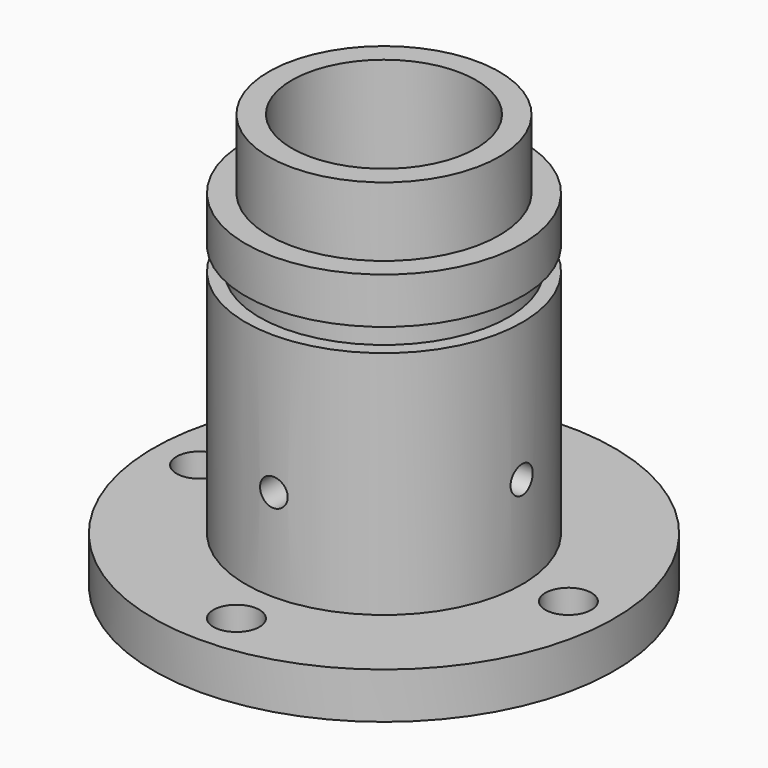
from build123d import *

# Parameters (mm, degrees)
F2_SIZE  = 3
F3_R     = 3
F4_DEPTH = 50
F5_R     = 3
F6_DEPTH = 50
F7_R     = 5
F8_DEPTH = 10


with BuildPart() as f1:
    # F0 (on Right) → F1 (revolve)
    with BuildSketch(Plane.YZ):
        Polygon((-50, 0), (-16, 0), (-16, 15), (-20, 15), (-20, 20), (-16, 20), (-16, 40), (-20, 50), (-20, 90), (-25, 90), (-25, 75), (-30, 75), (-30, 65), (-27, 65), (-27, 60), (-30, 60), (-30, 10), (-50, 10), align=None)
    revolve(axis=Axis((0, 0, 45), (0, 0, 1)))

    # F2
    f2_edges = [f1.edges().sort_by_distance(p)[0] for p in [
        (0, 16, 0),
    ]]
    chamfer(f2_edges, length=F2_SIZE)

    # F3 (on Front) → F4 (cut, symmetric)
    with BuildSketch(Plane.XZ):
        with Locations((0, 30)):
            Circle(F3_R)
    extrude(amount=F4_DEPTH, both=True, mode=Mode.SUBTRACT)

    # F5 (on Right) → F6 (cut, symmetric)
    with BuildSketch(Plane.YZ):
        with Locations((0, 30)):
            Circle(F5_R)
    extrude(amount=F6_DEPTH, both=True, mode=Mode.SUBTRACT)

    # F7 (on face) → F8 (cut, through all)
    with BuildSketch(Plane.XY.offset(10)):
        with Locations((0, -40)):
            Circle(F7_R)
        with Locations((40, 0)):
            Circle(F7_R)
        with Locations((0, 40)):
            Circle(F7_R)
        with Locations((-40, 0)):
            Circle(F7_R)
    extrude(amount=-F8_DEPTH, mode=Mode.SUBTRACT)


solid = f1.part
